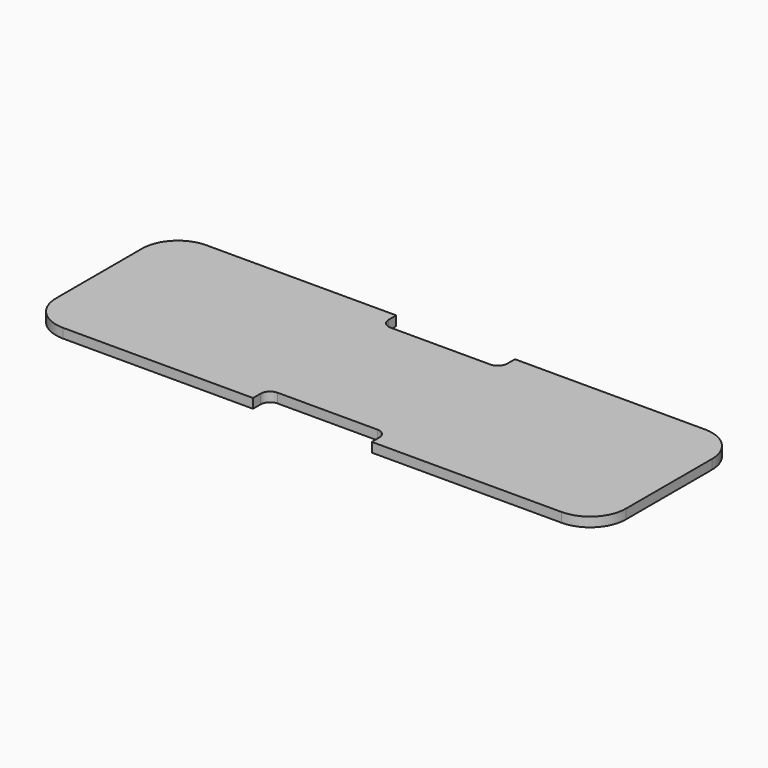
from build123d import *

# Parameters (mm, degrees)
F0_W     = 120
F0_H     = 37.7
F1_DEPTH = 2
F2_W     = 25
F2_H     = 8
F3_DEPTH = 25
F4_R     = 7.5
F5_R     = 2


with BuildPart() as f1:
    # F0 (on Top) → F1 (new body)
    with BuildSketch(Plane.XY):
        Rectangle(F0_W, F0_H)
    extrude(amount=F1_DEPTH)

    # F2 (on face) → F3 (cut)
    with BuildSketch(Plane.XY.offset(2)):
        with Locations((0, 18.85)):
            Rectangle(F2_W, F2_H)
        with Locations((0, -18.85)):
            Rectangle(F2_W, F2_H)
    extrude(amount=-F3_DEPTH, mode=Mode.SUBTRACT)

    # F4
    f4_edges = [f1.edges().sort_by_distance(p)[0] for p in [
        (-60, -18.85, 1),
        (60, -18.85, 1),
        (60, 18.85, 1),
        (-60, 18.85, 1),
    ]]
    fillet(f4_edges, radius=F4_R)

    # F5
    f5_edges = [f1.edges().sort_by_distance(p)[0] for p in [
        (-12.5, 14.85, 1),
        (12.5, 14.85, 1),
        (-12.5, -14.85, 1),
        (12.5, -14.85, 1),
    ]]
    fillet(f5_edges, radius=F5_R)


solid = f1.part
